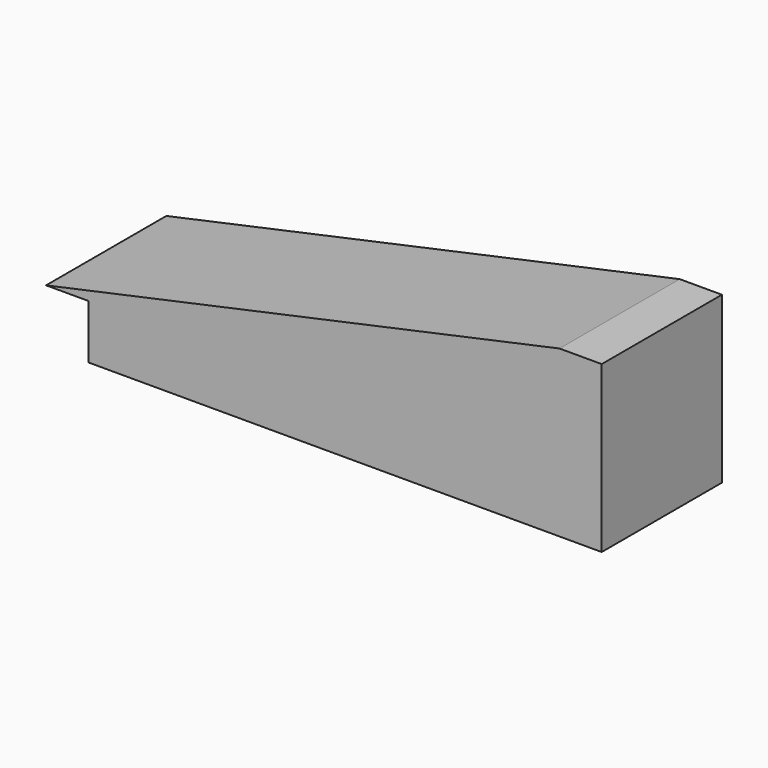
from build123d import *

# Parameters (mm, degrees)
F1_DEPTH   = 14.25
F3_R       = 2.6339029673
F2_W       = 14.25
F2_H       = 15.6913418323
F1_FACE1_W = 49.818913266
F1_FACE1_H = 14.25
F4_DEPTH   = 4


with BuildPart() as f1:
    # F0 (on Front) → F1 (new body)
    with BuildSketch(Plane.XZ):
        Polygon((-26.1033531278, 0), (22.5837994367, 0), (22.5837994367, 15.6913418323), (-26.1033531278, 5.1326821558), align=None)
    extrude(amount=F1_DEPTH)

    # F3 (on face) + F2 (on face) + F1_face1 (on face) → F4 (join)
    with BuildSketch(Plane.YZ.offset(22.5837994367)):
        with Locations((-7.3555130512, 8.1108119339)):
            Circle(F3_R)
    with BuildSketch(Plane.YZ.offset(22.5837994367)):
        with Locations((-7.125, 7.8456709161)):
            Rectangle(F2_W, F2_H)
    with BuildSketch(Plane(origin=(-1.7597768456, -7.125, 10.412011994), x_dir=(1, 0, 0), z_dir=(-0.2119407868, 0, 0.9772825092))):
        Rectangle(F1_FACE1_W, F1_FACE1_H)
    extrude(amount=-F4_DEPTH, dir=(1, 0, 0))


solid = f1.part
